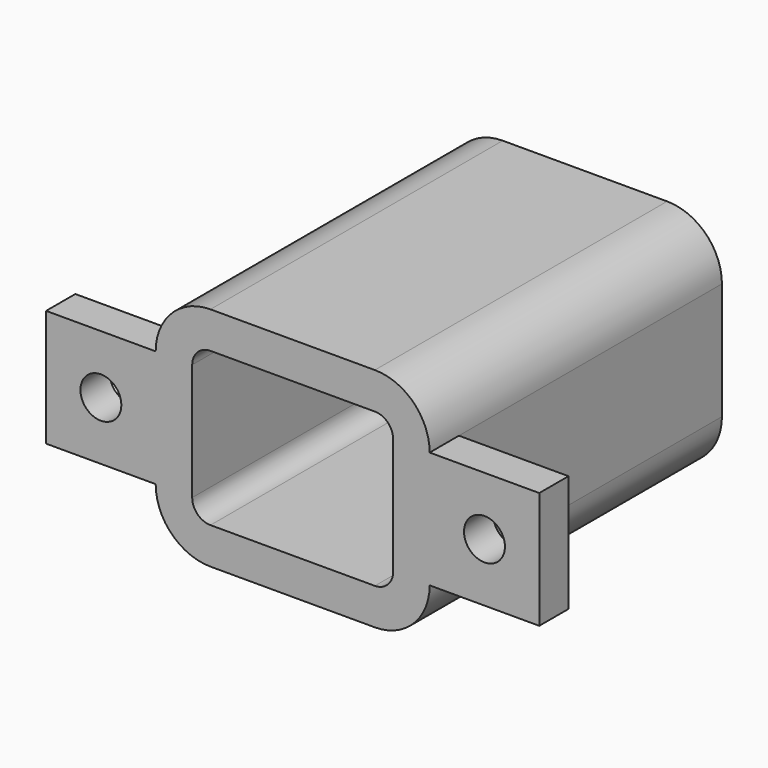
from build123d import *

# Parameters (mm, degrees)
F1_W      = 25.4
F1_H      = 2.54
F3_W      = 2.54
F3_H      = 8.128
F4_DEPTH  = 7.62
F5_W      = 2.54
F5_H      = 8.128
F6_DEPTH  = 7.62
F7_R      = 1.4224
F8_DEPTH  = 25.401
F9_R      = 1.4224
F10_DEPTH = 25.401
F12_DEPTH = 1.27


with BuildPart() as f2:
    # F2: sweep along a path in F0
    with BuildLine(Plane.XZ) as f2_path:
        Line((-5.715, 10.668), (5.715, 10.668))
        ThreePointArc((5.715, 10.668), (6.613026, 10.296026), (6.985, 9.398))
        Line((6.985, 9.398), (6.985, 1.27))
        ThreePointArc((6.985, 1.27), (6.613026, 0.371974), (5.715, 0))
        Line((5.715, 0), (-5.715, 0))
        ThreePointArc((-5.715, 0), (-6.613026, 0.371974), (-6.985, 1.27))
        Line((-6.985, 1.27), (-6.985, 9.398))
        ThreePointArc((-6.985, 9.398), (-6.613026, 10.296026), (-5.715, 10.668))
    # F1 (on Right) → F2 (sweep)
    with BuildSketch(Plane.YZ):
        with Locations((0, 11.938)):
            Rectangle(F1_W, F1_H)
    sweep(path=f2_path.line)

    # F3 (on face) → F4 (join)
    with BuildSketch(Plane(origin=(-9.525, 0, 0), x_dir=(0, -1, 0), z_dir=(-1, 0, 0))):
        with Locations((11.43, 5.334)):
            Rectangle(F3_W, F3_H)
    extrude(amount=F4_DEPTH)

    # F5 (on face) → F6 (join)
    with BuildSketch(Plane.YZ.offset(9.525)):
        with Locations((-11.43, 5.334)):
            Rectangle(F5_W, F5_H)
    extrude(amount=F6_DEPTH)

    # F7 (on face) → F8 (cut, through all)
    with BuildSketch(Plane.XZ.offset(12.7)):
        with Locations((-13.335, 5.334)):
            Circle(F7_R)
    extrude(amount=-F8_DEPTH, mode=Mode.SUBTRACT)

    # F9 (on face) → F10 (cut, through all)
    with BuildSketch(Plane.XZ.offset(12.7)):
        with Locations((13.335, 5.334)):
            Circle(F9_R)
    extrude(amount=-F10_DEPTH, mode=Mode.SUBTRACT)

    # F11 (on face) → F12 (join)
    with BuildSketch(Plane(origin=(0, 12.7, 0), x_dir=(-1, 0, 0), z_dir=(0, 1, 0))):
        Polygon((1.27, -1.27), (1.27, 11.43), (0, 11.43), (-1.27, 11.43), (-1.27, -1.27), align=None)
    extrude(amount=F12_DEPTH)


solid = f2.part
